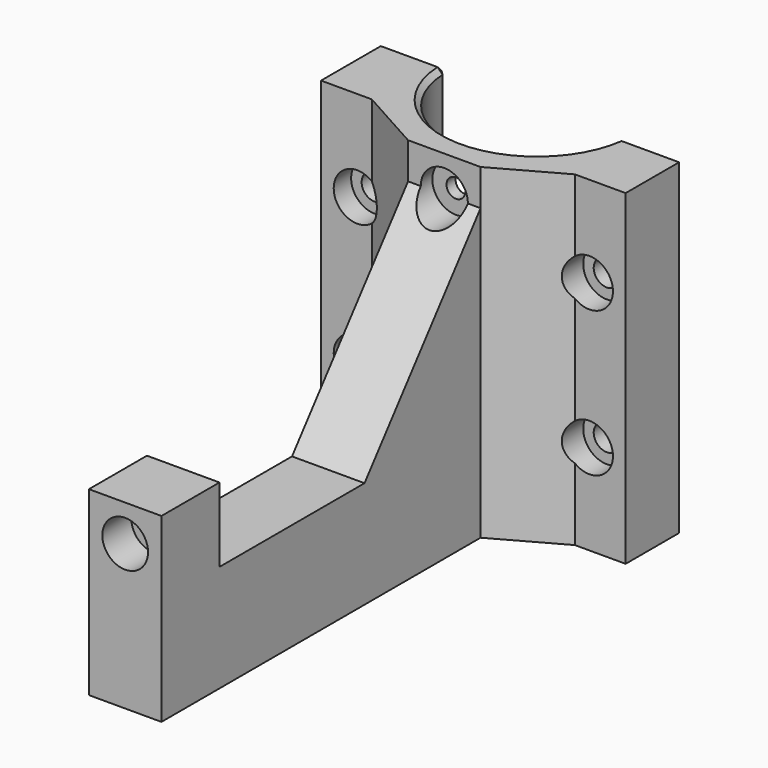
from build123d import *

# Parameters (mm, degrees)
SKETCH018_AS_DRAWN_R                 = 3.15
EXTRUDE021_DEPTH                     = 5
EXTRUDE021_ONTO_SKETCH018_ROLL_ANGLE = 90
SKETCH007_AS_DRAWN_R                 = 1.8
EXTRUDE020_DEPTH                     = 15
EXTRUDE020_ONTO_SKETCH007_ROLL_ANGLE = 90
SKETCH005_AS_DRAWN_R                 = 1.8
SKETCH005_AS_DRAWN_R_2               = 1.3
EXTRUDE008_DEPTH                     = 40
EXTRUDE008_ONTO_SKETCH005_ROLL_ANGLE = 90
SKETCH006_AS_DRAWN_R                 = 3.25
EXTRUDE009_DEPTH                     = 4
EXTRUDE009_ONTO_SKETCH006_ROLL_ANGLE = 90
SKETCH019_AS_DRAWN_R                 = 3.25
EXTRUDE022_DEPTH                     = 10
EXTRUDE022_ONTO_SKETCH019_ROLL_ANGLE = 90
SKETCH004_R                          = 12.5
EXTRUDE007_DEPTH                     = 60
EXTRUDE001_DEPTH                     = 10
EXTRUDE_DEPTH                        = 45
CHAMFER_SIZE                         = 0.7


with BuildPart() as extrude021:
    # Sketch018 as drawn → Extrude021 (new)
    with BuildSketch(Plane.XY):
        with Locations((0, 20)):
            Circle(SKETCH018_AS_DRAWN_R)
    extrude(amount=-EXTRUDE021_DEPTH)


with BuildPart() as extrude021_1:
    # Extrude021 onto Sketch018 roll: moved
    add(extrude021.part.rotate(Axis((0, 0, 0), (1, 0, 0)), EXTRUDE021_ONTO_SKETCH018_ROLL_ANGLE))


with BuildPart() as extrude021_2:
    # Extrude021 onto Sketch018 placement: moved
    add(extrude021_1.part.moved(Location((0, -55, 0))))


with BuildPart() as bottomscrewhole:
    # Sketch007 as drawn → Extrude020 (new)
    with BuildSketch(Plane.XY):
        with Locations((0, 20)):
            Circle(SKETCH007_AS_DRAWN_R)
    extrude(amount=-EXTRUDE020_DEPTH)


with BuildPart() as bottomscrewhole_1:
    # Extrude020 onto Sketch007 roll: moved
    add(bottomscrewhole.part.rotate(Axis((0, 0, 0), (1, 0, 0)), EXTRUDE020_ONTO_SKETCH007_ROLL_ANGLE))


with BuildPart() as bottomscrewhole_2:
    # Extrude020 onto Sketch007 placement: moved
    add(bottomscrewhole_1.part.moved(Location((0, -55, 0))))

    # Fusion006: union Extrude021
    add(extrude021_2.part)


with BuildPart() as extrude008:
    # Sketch005 as drawn → Extrude008 (new)
    with BuildSketch(Plane.XY):
        with Locations((-16, 10)):
            Circle(SKETCH005_AS_DRAWN_R)
        with Locations((16, 10)):
            Circle(SKETCH005_AS_DRAWN_R)
        with Locations((16, -10)):
            Circle(SKETCH005_AS_DRAWN_R)
        with Locations((-16, -10)):
            Circle(SKETCH005_AS_DRAWN_R)
        with Locations((0, 17.5)):
            Circle(SKETCH005_AS_DRAWN_R_2)
    extrude(amount=-EXTRUDE008_DEPTH)


with BuildPart() as extrude008_1:
    # Extrude008 onto Sketch005 roll: moved
    add(extrude008.part.rotate(Axis((0, 0, 0), (1, 0, 0)), EXTRUDE008_ONTO_SKETCH005_ROLL_ANGLE))


with BuildPart() as extrude008_2:
    # Extrude008 onto Sketch005 placement: moved
    add(extrude008_1.part)


with BuildPart() as extrude008_3:
    # Extrude008 placement: moved
    add(extrude008_2.part.moved(Location((0, -20, 0))))


with BuildPart() as extrude009:
    # Sketch006 as drawn → Extrude009 (new)
    with BuildSketch(Plane.XY):
        with Locations((-16, 10)):
            Circle(SKETCH006_AS_DRAWN_R)
        with Locations((16, 10)):
            Circle(SKETCH006_AS_DRAWN_R)
        with Locations((16, -10)):
            Circle(SKETCH006_AS_DRAWN_R)
        with Locations((-16, -10)):
            Circle(SKETCH006_AS_DRAWN_R)
    extrude(amount=EXTRUDE009_DEPTH)


with BuildPart() as extrude009_1:
    # Extrude009 onto Sketch006 roll: moved
    add(extrude009.part.rotate(Axis((0, 0, 0), (1, 0, 0)), EXTRUDE009_ONTO_SKETCH006_ROLL_ANGLE))


with BuildPart() as extrude009_2:
    # Extrude009 onto Sketch006 placement: moved
    add(extrude009_1.part)


with BuildPart() as extrude009_3:
    # Extrude009 placement: moved
    add(extrude009_2.part.moved(Location((0, 8, 0))))


with BuildPart() as screwholes:
    # Sketch019 as drawn → Extrude022 (new)
    with BuildSketch(Plane.XY):
        with Locations((0, 17.5)):
            Circle(SKETCH019_AS_DRAWN_R)
    extrude(amount=-EXTRUDE022_DEPTH)


with BuildPart() as screwholes_1:
    # Extrude022 onto Sketch019 roll: moved
    add(screwholes.part.rotate(Axis((0, 0, 0), (1, 0, 0)), EXTRUDE022_ONTO_SKETCH019_ROLL_ANGLE))


with BuildPart() as screwholes_2:
    # Extrude022 onto Sketch019 placement: moved
    add(screwholes_1.part)


with BuildPart() as screwholes_3:
    # Extrude022 placement: moved
    add(screwholes_2.part.moved(Location((0, -8, 0))))

    # Fusion007: union Extrude008, Extrude009
    add(extrude008_3.part)
    add(extrude009_3.part)


with BuildPart() as screwholes_4:
    # Fusion007 placement: moved
    add(screwholes_3.part.moved(Location((0, 0, 22.5))))


with BuildPart() as tube:
    # Sketch004 → Extrude007 (new body)
    with BuildSketch(Plane(origin=(0, 16, 0), x_dir=(1, 0, 0), z_dir=(0, 0, 1))):
        Circle(SKETCH004_R)
    extrude(amount=EXTRUDE007_DEPTH)


with BuildPart() as tube_1:
    # Extrude007 placement: moved
    add(tube.part.moved(Location((0, 0, -12.5))))


with BuildPart() as extrude001:
    # Sketch → Extrude001 (new body)
    with BuildSketch(Plane.YZ):
        Polygon((0, 40), (0, 0), (-55, 0), (-55, 25), (-45, 25), (-45, 14.75), (-20, 14.75), align=None)
    extrude(amount=EXTRUDE001_DEPTH)


with BuildPart() as extrude001_1:
    # Extrude001 placement: moved
    add(extrude001.part.moved(Location((-5, 0, 0))))


with BuildPart() as chamfer_body:
    # Sketch003 → Extrude (new body)
    with BuildSketch(Plane.XY):
        Polygon((21, 14.910553), (21, 5), (14, 5), (5, 0), (-5, 0), (-14, 5), (-21, 5), (-21, 16), (-12.5, 16), (-11.410553, 14.910553), (12.452434, 14.910553), align=None)
    extrude(amount=EXTRUDE_DEPTH)

    # Fusion: union Extrude001
    add(extrude001_1.part)

    # Cut: cut tube
    add(tube_1.part, mode=Mode.SUBTRACT)

    # Cut001: cut ScrewHoles
    add(screwholes_4.part, mode=Mode.SUBTRACT)

    # Cut002: cut BottomScrewHole
    add(bottomscrewhole_2.part, mode=Mode.SUBTRACT)

    # Chamfer
    chamfer_edges = [chamfer_body.edges().sort_by_distance(p)[0] for p in [
        (12.452434, 14.910553, 22.5),
        (16.726217, 14.910553, 0),
        (16.726217, 14.910553, 45),
        (21, 14.910553, 22.5),
        (-0.545242, 3.511897, 0),
        (-0.545242, 3.511897, 45),
        (-12.5, 16, 22.5),
        (-16.75, 16, 0),
        (-16.75, 16, 45),
        (-21, 16, 22.5),
    ]]
    chamfer(chamfer_edges, length=CHAMFER_SIZE)


solid = chamfer_body.part
